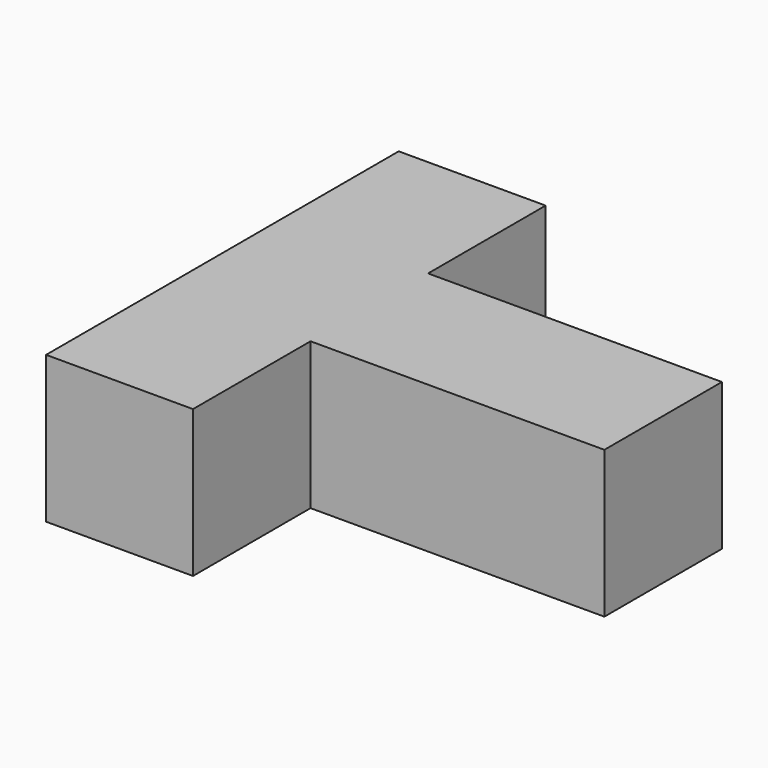
from build123d import *

# Parameters (mm, degrees)
F0_W     = 10
F0_H     = 5
F1_DEPTH = 5
F2_W     = 5
F2_H     = 7.5
F3_DEPTH = 5


with BuildPart() as f1:
    # F0 (on Top) → F1 (new body)
    with BuildSketch(Plane.XY):
        with Locations((-0.540764, 0)):
            Rectangle(F0_W, F0_H)
    extrude(amount=F1_DEPTH)

    # F2 (on face) → F3 (join)
    with BuildSketch(Plane.XY.offset(5)):
        with Locations((-8.040764, -3.75)):
            Rectangle(F2_W, F2_H)
        with Locations((-8.040764, 3.75)):
            Rectangle(F2_W, F2_H)
    extrude(amount=-F3_DEPTH)


solid = f1.part
